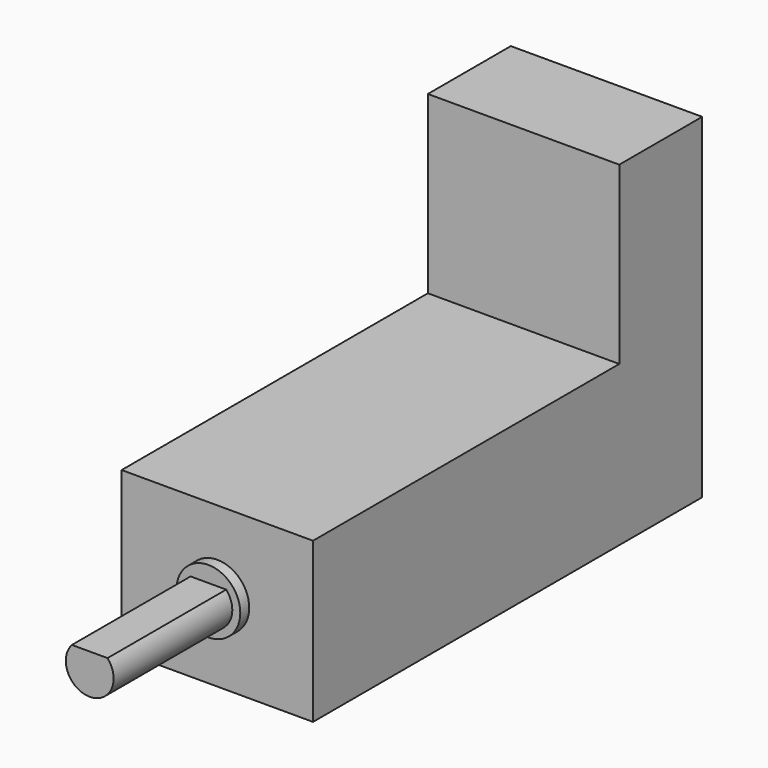
from build123d import *

# Parameters (mm, degrees)
F0_W     = 12
F0_H     = 10
F1_DEPTH = 30.5
F2_R     = 2
F3_DEPTH = 0.7
F4_R     = 1.5
F5_DEPTH = 9.3
F6_W     = 6.687609
F6_H     = 1.676586
F7_DEPTH = 9.3
F8_W     = 12
F8_H     = 6.5
F9_DEPTH = 11


with BuildPart() as f1:
    # F0 (on Front) → F1 (new body)
    with BuildSketch(Plane.XZ):
        Rectangle(F0_W, F0_H)
    extrude(amount=F1_DEPTH)

    # F2 (on face) → F3 (join)
    with BuildSketch(Plane.XZ.offset(30.5)):
        Circle(F2_R)
    extrude(amount=F3_DEPTH)

    # F4 (on face) → F5 (join)
    with BuildSketch(Plane.XZ.offset(31.2)):
        Circle(F4_R)
    extrude(amount=F5_DEPTH)

    # F6 (on face) → F7 (cut)
    with BuildSketch(Plane.XZ.offset(40.5)):
        with Locations((0.224422, 1.838293)):
            Rectangle(F6_W, F6_H)
    extrude(amount=-F7_DEPTH, mode=Mode.SUBTRACT)

    # F8 (on face) → F9 (join)
    with BuildSketch(Plane.XY.offset(5)):
        with Locations((0, -3.25)):
            Rectangle(F8_W, F8_H)
    extrude(amount=F9_DEPTH)


solid = f1.part
